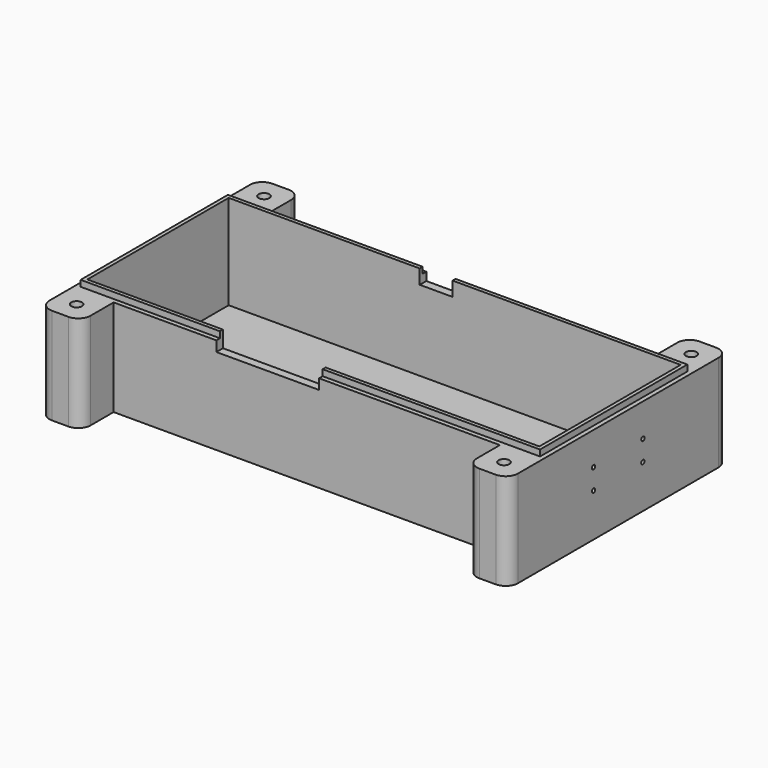
from build123d import *

# Parameters (mm, degrees)
SKETCH_W        = 114
SKETCH_H        = 47
PAD_DEPTH       = 25
THICKNESS_T     = -2
SKETCH001_W     = 114
SKETCH001_H     = 1.1
POCKET_DEPTH    = 1.5
SKETCH002_W     = 1.1
SKETCH002_H     = 47
POCKET001_DEPTH = 1.5
SKETCH003_W     = 10
SKETCH003_H     = 23.5
PAD001_DEPTH    = 10
SKETCH004_W     = 10
SKETCH004_H     = 23.5
PAD002_DEPTH    = 10
SKETCH005_R     = 1.3
POCKET002_DEPTH = 23.5
SKETCH006_R     = 0.5
POCKET003_DEPTH = 2
SKETCH007_W     = 9
SKETCH007_H     = 5
PAD003_DEPTH    = 6
SKETCH009_R     = 1.5
POCKET004_DEPTH = 5
FILLET_R        = 3
FILLET001_R     = 3
FILLET002_R     = 3
SKETCH010_W     = 25
SKETCH010_H     = 4
POCKET005_DEPTH = 2
SKETCH011_W     = 8
SKETCH011_H     = 3.5
POCKET006_DEPTH = 2


with BuildPart() as part:
    # Sketch → Pad (new body)
    with BuildSketch(Plane.XY):
        Rectangle(SKETCH_W, SKETCH_H)
    extrude(amount=PAD_DEPTH)

    # Thickness
    thickness_openings = [part.faces().sort_by_distance(p)[0] for p in [
        (0, 0, 25),
    ]]
    offset(amount=THICKNESS_T, openings=thickness_openings)

    # Sketch001 (on Face6 of Thickness) → Pocket (cut)
    with BuildSketch(Plane.XY.offset(25)):
        with Locations((0, -22.95)):
            Rectangle(SKETCH001_W, SKETCH001_H)
        with Locations((0, 22.95)):
            Rectangle(SKETCH001_W, SKETCH001_H)
    extrude(amount=-POCKET_DEPTH, mode=Mode.SUBTRACT)

    # Sketch002 (on Face6 of Pocket) → Pocket001 (cut)
    with BuildSketch(Plane.XY.offset(25)):
        with Locations((56.45, 0)):
            Rectangle(SKETCH002_W, SKETCH002_H)
        with Locations((-56.45, 0)):
            Rectangle(SKETCH002_W, SKETCH002_H)
    extrude(amount=-POCKET001_DEPTH, mode=Mode.SUBTRACT)

    # Sketch003 (on Face4 of Pocket001) → Pad001 (join)
    with BuildSketch(Plane(origin=(0, 23.5, 0), x_dir=(-1, 0, 0), z_dir=(0, 1, 0))):
        with Locations((-52, 11.75)):
            Rectangle(SKETCH003_W, SKETCH003_H)
        with Locations((52, 11.75)):
            Rectangle(SKETCH003_W, SKETCH003_H)
    extrude(amount=PAD001_DEPTH)

    # Sketch004 (on Face1 of Pad001) → Pad002 (join)
    with BuildSketch(Plane.XZ.offset(23.5)):
        with Locations((-52, 11.75)):
            Rectangle(SKETCH004_W, SKETCH004_H)
        with Locations((52, 11.75)):
            Rectangle(SKETCH004_W, SKETCH004_H)
    extrude(amount=PAD002_DEPTH)

    # Sketch005 (on Face12 of Pad002) → Pocket002 (cut)
    with BuildSketch(Plane.XY.offset(23.5)):
        with Locations((-52, 28.5)):
            Circle(SKETCH005_R)
        with Locations((52, 28.5)):
            Circle(SKETCH005_R)
        with Locations((52, -28.5)):
            Circle(SKETCH005_R)
        with Locations((-52, -28.5)):
            Circle(SKETCH005_R)
    extrude(amount=-POCKET002_DEPTH, mode=Mode.SUBTRACT)

    # Sketch006 (on Face12 of Pocket002) → Pocket003 (cut)
    with BuildSketch(Plane.YZ.offset(57)):
        with Locations((7.5, 10.5)):
            Circle(SKETCH006_R)
        with Locations((7.5, 15.5)):
            Circle(SKETCH006_R)
        with Locations((-7.5, 10.5)):
            Circle(SKETCH006_R)
        with Locations((-7.5, 15.5)):
            Circle(SKETCH006_R)
    extrude(amount=-POCKET003_DEPTH, mode=Mode.SUBTRACT)

    # Sketch007 (on Face4 of Pocket003) → Pad003 (join)
    with BuildSketch(Plane(origin=(-57, 0, 0), x_dir=(0, -1, 0), z_dir=(-1, 0, 0))):
        with Locations((0, 11.75)):
            Rectangle(SKETCH007_W, SKETCH007_H)
    extrude(amount=PAD003_DEPTH)

    # Sketch009 (on Face22 of Pad003) → Pocket004 (cut)
    with BuildSketch(Plane.XY.offset(14.25)):
        with Locations((-58.5, 0)):
            Circle(SKETCH009_R)
    extrude(amount=-POCKET004_DEPTH, mode=Mode.SUBTRACT)

    # Fillet
    fillet_edges = [part.edges().sort_by_distance(p)[0] for p in [
        (-57, -33.5, 11.75),
        (-47, -33.5, 11.75),
        (47, -33.5, 11.75),
        (57, -33.5, 11.75),
    ]]
    fillet(fillet_edges, radius=FILLET_R)

    # Fillet001
    fillet001_edges = [part.edges().sort_by_distance(p)[0] for p in [
        (-63, -4.5, 11.75),
        (-63, 4.5, 11.75),
    ]]
    fillet(fillet001_edges, radius=FILLET001_R)

    # Fillet002
    fillet002_edges = [part.edges().sort_by_distance(p)[0] for p in [
        (57, 33.5, 11.75),
        (47, 33.5, 11.75),
        (-47, 33.5, 11.75),
        (-57, 33.5, 11.75),
    ]]
    fillet(fillet002_edges, radius=FILLET002_R)

    # Sketch010 (on Face17 of Fillet002) → Pocket005 (cut)
    with BuildSketch(Plane.XZ.offset(23.5)):
        with Locations((-9.5, 23)):
            Rectangle(SKETCH010_W, SKETCH010_H)
    extrude(amount=-POCKET005_DEPTH, mode=Mode.SUBTRACT)

    # Sketch011 (on Face13 of Pocket005) → Pocket006 (cut)
    with BuildSketch(Plane(origin=(0, 23.5, 0), x_dir=(-1, 0, 0), z_dir=(0, 1, 0))):
        with Locations((4.5, 23.25)):
            Rectangle(SKETCH011_W, SKETCH011_H)
    extrude(amount=-POCKET006_DEPTH, mode=Mode.SUBTRACT)


solid = part.part
